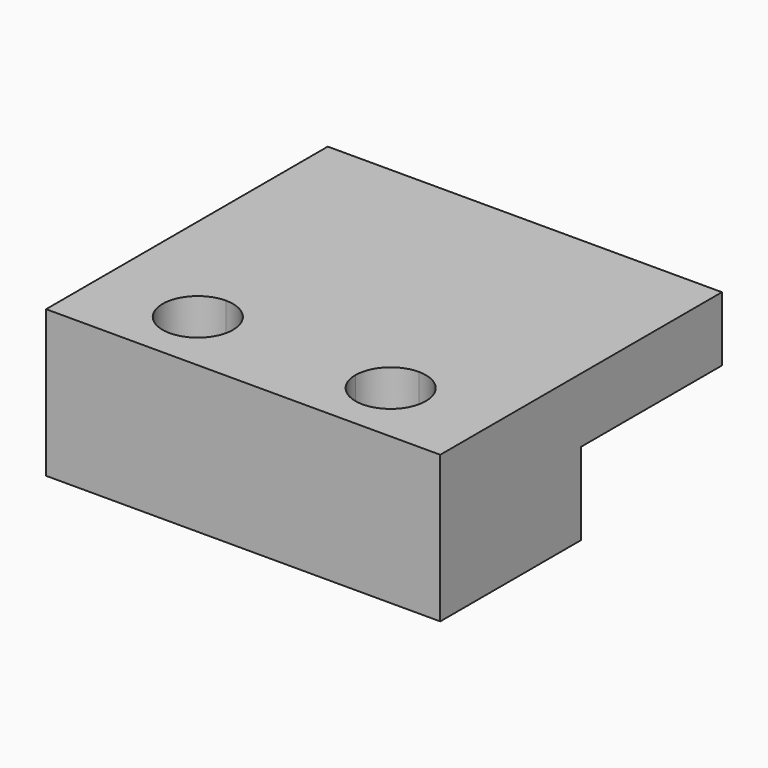
from build123d import *

# Parameters (mm, degrees)
F0_W     = 32.8638516366
F0_H     = 19.1183499992
F1_DEPTH = 25
F2_DEPTH = 3
F3_DEPTH = 14


with BuildPart() as f1:
    # F0 (on Top) → F1 (new body)
    with BuildSketch(Plane.XY):
        Polygon((33.5817799435, 0), (33.5817799435, 30), (-33.5817799435, 30), (-33.5817799435, 0), (-16.4319258183, 0), (-16.4319258183, 19.1183499992), (16.4319258183, 19.1183499992), (16.4319258183, 0), align=None)
        with Locations((0, 9.5591749996)):
            Rectangle(F0_W, F0_H)
        with BuildLine():
            Line((16.4319258183, -13.1183499992), (16.4319258183, 0))
            Line((16.4319258183, 0), (-16.4319258183, 0))
            Line((-16.4319258183, 0), (-16.4319258183, -13.1183499992))
            ThreePointArc((-16.4319258183, -13.1183499992), (-12.1892851312, -14.8757093121), (-10.4319258183, -19.1183499992))
            Line((-10.4319258183, -19.1183499992), (10.4319258183, -19.1183499992))
            ThreePointArc((10.4319258183, -19.1183499992), (12.1892851312, -14.8757093121), (16.4319258183, -13.1183499992))
        make_face()
        with BuildLine():
            Line((33.5817799435, -30), (33.5817799435, 0))
            Line((33.5817799435, 0), (16.4319258183, 0))
            Line((16.4319258183, 0), (16.4319258183, -13.1183499992))
            ThreePointArc((16.4319258183, -13.1183499992), (20.6745665054, -14.8757093121), (22.4319258183, -19.1183499992))
            ThreePointArc((22.4319258183, -19.1183499992), (16.4319258183, -25.1183499992), (10.4319258183, -19.1183499992))
            Line((10.4319258183, -19.1183499992), (-10.4319258183, -19.1183499992))
            ThreePointArc((-10.4319258183, -19.1183499992), (-20.6745665054, -23.3609906863), (-16.4319258183, -13.1183499992))
            Line((-16.4319258183, -13.1183499992), (-16.4319258183, 0))
            Line((-16.4319258183, 0), (-33.5817799435, 0))
            Line((-33.5817799435, 0), (-33.5817799435, -30))
            Line((-33.5817799435, -30), (33.5817799435, -30))
        make_face()
    extrude(amount=F1_DEPTH)

    # F0 (on Top) → F2 (join)
    with BuildSketch(Plane.XY):
        with BuildLine():
            Line((-16.4319258183, -15.6183499992), (-16.4319258183, -13.1183499992))
            ThreePointArc((-16.4319258183, -13.1183499992), (-20.6745665054, -23.3609906863), (-10.4319258183, -19.1183499992))
            Line((-10.4319258183, -19.1183499992), (-12.9319258183, -19.1183499992))
            ThreePointArc((-12.9319258183, -19.1183499992), (-18.9067995525, -21.5932237333), (-16.4319258183, -15.6183499992))
        make_face()
        with BuildLine():
            ThreePointArc((-10.4319258183, -19.1183499992), (-12.1892851312, -14.8757093121), (-16.4319258183, -13.1183499992))
            Line((-16.4319258183, -13.1183499992), (-16.4319258183, -15.6183499992))
            ThreePointArc((-16.4319258183, -15.6183499992), (-13.9570520842, -16.643476265), (-12.9319258183, -19.1183499992))
            Line((-12.9319258183, -19.1183499992), (-10.4319258183, -19.1183499992))
        make_face()
        with BuildLine():
            Line((16.4319258183, -15.6183499992), (16.4319258183, -13.1183499992))
            ThreePointArc((16.4319258183, -13.1183499992), (12.1892851312, -14.8757093121), (10.4319258183, -19.1183499992))
            Line((10.4319258183, -19.1183499992), (12.9319258183, -19.1183499992))
            ThreePointArc((12.9319258183, -19.1183499992), (13.9570520842, -16.643476265), (16.4319258183, -15.6183499992))
        make_face()
        with BuildLine():
            ThreePointArc((22.4319258183, -19.1183499992), (20.6745665054, -14.8757093121), (16.4319258183, -13.1183499992))
            Line((16.4319258183, -13.1183499992), (16.4319258183, -15.6183499992))
            ThreePointArc((16.4319258183, -15.6183499992), (18.9067995525, -16.643476265), (19.9319258183, -19.1183499992))
            ThreePointArc((19.9319258183, -19.1183499992), (16.4319258183, -22.6183499992), (12.9319258183, -19.1183499992))
            Line((12.9319258183, -19.1183499992), (10.4319258183, -19.1183499992))
            ThreePointArc((10.4319258183, -19.1183499992), (16.4319258183, -25.1183499992), (22.4319258183, -19.1183499992))
        make_face()
    extrude(amount=F2_DEPTH)

    # F0 (on Top) → F3 (cut)
    with BuildSketch(Plane.XY):
        Polygon((33.5817799435, 0), (33.5817799435, 30), (-33.5817799435, 30), (-33.5817799435, 0), (-16.4319258183, 0), (-16.4319258183, 19.1183499992), (16.4319258183, 19.1183499992), (16.4319258183, 0), align=None)
        with Locations((0, 9.5591749996)):
            Rectangle(F0_W, F0_H)
    extrude(amount=F3_DEPTH, mode=Mode.SUBTRACT)


solid = f1.part
